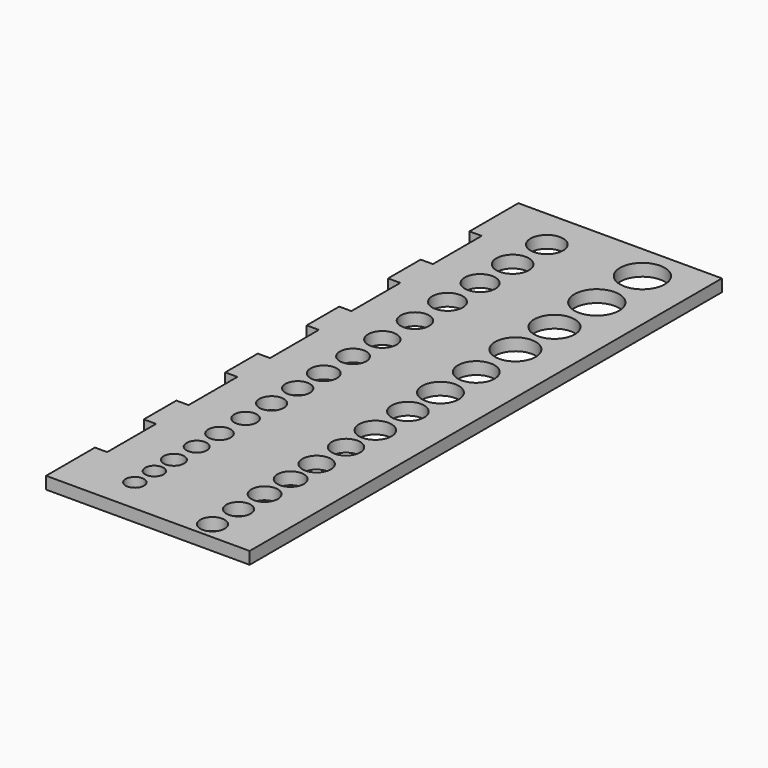
from build123d import *

# Parameters (mm, degrees)
F0_W      = 5.3952559829
F0_H      = 21.7885393649
F0_W_2    = 6.4328089356
F0_H_2    = 60.9454013749
F1_DEPTH  = 12.5
F2_R      = 3
F2_R_2    = 3.25
F2_R_3    = 3.5
F2_R_4    = 4
F2_R_5    = 4.5
F2_R_6    = 5
F2_R_7    = 5.5
F3_DEPTH  = 65.591439771
F4_W      = 25
F4_H      = 62.590439771
F5_DEPTH  = 146.2136954069
F6_DEPTH  = 25
F7_W      = 3
F7_H      = 15
F7_W_2    = 50
F7_H_2    = 1.2136954069
F8_DEPTH  = 3
F9_R      = 4
F9_R_2    = 3.75
F9_R_3    = 3.5
F9_R_4    = 3.25
F9_R_5    = 3
F9_R_6    = 2.75
F9_R_7    = 2.5
F9_R_8    = 2.25
F10_DEPTH = 3


with BuildPart() as f1:
    # F0 (on Right) → F1 (new body, symmetric)
    with BuildSketch(Plane.YZ):
        with Locations((-29.570158571, 3.008893691)):
            Rectangle(F0_W, F0_H)
        Polygon((113.9459088445, 18.5482017696), (-32.2677865624, 18.5482017696), (-32.2677865624, 13.9031633735), (-26.8725305796, 13.9031633735), (107.5130999088, 13.9031633735), (113.9459088445, 13.9031633735), align=None)
        with Locations((110.7295043766, -16.569537314)):
            Rectangle(F0_W_2, F0_H_2)
        with Locations((-29.570158571, 3.008893691)):
            Rectangle(F0_W, F0_H)
        with Locations((110.7295043766, -16.569537314)):
            Rectangle(F0_W_2, F0_H_2)
        with Locations((-29.570158571, 3.008893691)):
            Rectangle(F0_W, F0_H)
    extrude(amount=F1_DEPTH, both=True)

    # F2 (on face) → F3 (cut, through all)
    with BuildSketch(Plane.XY.offset(18.5482017696)):
        with Locations((0, -28.0540911555)):
            Circle(F2_R)
        with Locations((0, -20.0540911555)):
            Circle(F2_R)
        with Locations((0, -12.0540911555)):
            Circle(F2_R_2)
        with Locations((0, -4.0540911555)):
            Circle(F2_R_2)
        with Locations((0, 3.9459088445)):
            Circle(F2_R_3)
        with Locations((0, 12.9459088445)):
            Circle(F2_R_3)
        with Locations((0, 21.9459088445)):
            Circle(F2_R_4)
        with Locations((0, 31.9459088445)):
            Circle(F2_R_4)
        with Locations((0, 41.9459088445)):
            Circle(F2_R_5)
        with Locations((0, 52.9459088445)):
            Circle(F2_R_5)
        with Locations((0, 64.9459088445)):
            Circle(F2_R_6)
        with Locations((0, 76.9459088445)):
            Circle(F2_R_6)
        with Locations((0, 89.9459088445)):
            Circle(F2_R_7)
        with Locations((0, 103.9459088445)):
            Circle(F2_R_7)
    extrude(amount=-F3_DEPTH, mode=Mode.SUBTRACT)

    # F4 (on face) → F5 (cut, through all)
    with BuildSketch(Plane(origin=(0, 113.9459088445, 0), x_dir=(-1, 0, 0), z_dir=(0, 1, 0))):
        with Locations((0, -15.7470181159)):
            Rectangle(F4_W, F4_H)
    extrude(amount=-F5_DEPTH, mode=Mode.SUBTRACT)

    # F6 (add): a face of the model
    f6_faces = [f1.faces().sort_by_distance(p)[0] for p in [
        (-12.5, 40.839061141, 17.0482017696),
    ]]
    extrude(f6_faces, amount=F6_DEPTH)

    # F7 (on face) → F8 (cut, through all)
    with BuildSketch(Plane.XY.offset(18.5482017696)):
        with Locations((-36, -9.7677865624)):
            Rectangle(F7_W, F7_H)
        with Locations((-36, 15.2322134376)):
            Rectangle(F7_W, F7_H)
        with Locations((-36, 40.2322134376)):
            Rectangle(F7_W, F7_H)
        with Locations((-36, 65.2322134376)):
            Rectangle(F7_W, F7_H)
        with Locations((-36, 90.2322134376)):
            Rectangle(F7_W, F7_H)
        with Locations((-12.5, 113.339061141)):
            Rectangle(F7_W_2, F7_H_2)
    extrude(amount=-F8_DEPTH, mode=Mode.SUBTRACT)

    # F9 (on face) → F10 (cut, through all)
    with BuildSketch(Plane.XY.offset(18.5482017696)):
        with Locations((-22.5, 102.7322134376)):
            Circle(F9_R)
        with Locations((-22.5, 92.2322134376)):
            Circle(F9_R)
        with Locations((-22.5, 82.2322134376)):
            Circle(F9_R_2)
        with Locations((-22.5, 72.2322134376)):
            Circle(F9_R_2)
        with Locations((-22.5, 62.2322134376)):
            Circle(F9_R_3)
        with Locations((-22.5, 52.2322134376)):
            Circle(F9_R_3)
        with Locations((-22.5, 43.2322134376)):
            Circle(F9_R_4)
        with Locations((-22.5, 34.2322134376)):
            Circle(F9_R_4)
        with Locations((-22.5, 26.2322134376)):
            Circle(F9_R_5)
        with Locations((-22.5, 18.2322134376)):
            Circle(F9_R_5)
        with Locations((-22.5, 10.2322134376)):
            Circle(F9_R_6)
        with Locations((-22.5, 2.2322134376)):
            Circle(F9_R_6)
        with Locations((-22.5, -4.7677865624)):
            Circle(F9_R_7)
        with Locations((-22.5, -11.7677865624)):
            Circle(F9_R_7)
        with Locations((-22.5, -17.7677865624)):
            Circle(F9_R_8)
        with Locations((-22.5, -23.7677865624)):
            Circle(F9_R_8)
    extrude(amount=-F10_DEPTH, mode=Mode.SUBTRACT)


solid = f1.part
